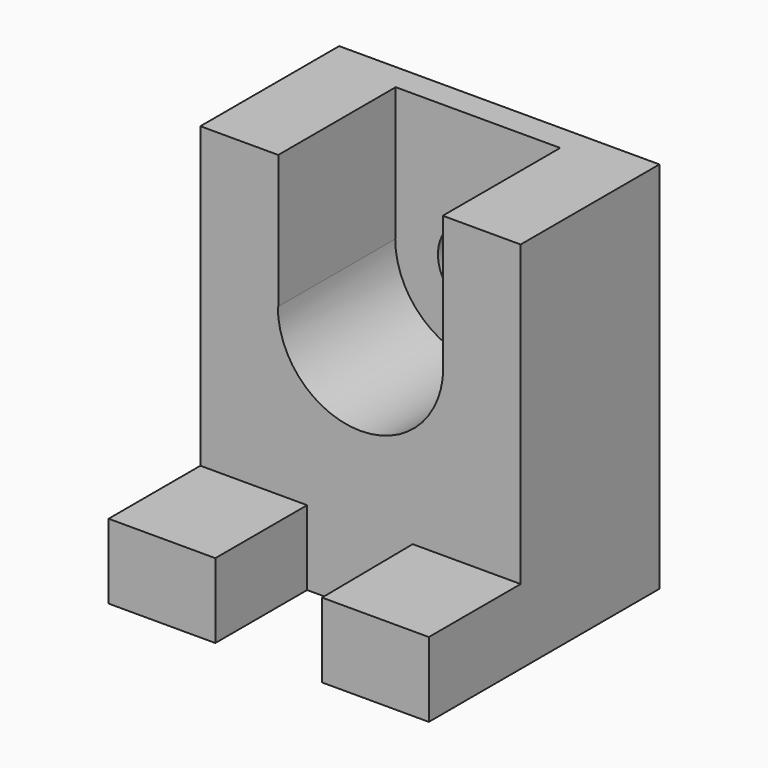
from build123d import *

# Parameters (mm, degrees)
F0_W      = 600
F0_H      = 700
F1_DEPTH  = 540
F2_W      = 600
F2_H      = 560
F3_DEPTH  = 240
F5_DEPTH  = 140.001
F7_DEPTH  = 25
F8_DEPTH  = 250
F9_R      = 75
F10_DEPTH = 50.001


with BuildPart() as f1:
    # F0 (on Front) → F1 (new body)
    with BuildSketch(Plane.XZ):
        Rectangle(F0_W, F0_H)
    extrude(amount=F1_DEPTH)

    # F2 (on face) → F3 (cut)
    with BuildSketch(Plane.XZ.offset(540)):
        with Locations((0, 70)):
            Rectangle(F2_W, F2_H)
    extrude(amount=-F3_DEPTH, mode=Mode.SUBTRACT)

    # F4 (on face) → F5 (cut, through all)
    with BuildSketch(Plane.XY.offset(-210)):
        Polygon((97.4877998233, -300), (-100, -300), (-100, -540), (100, -540), align=None)
    extrude(amount=-F5_DEPTH, mode=Mode.SUBTRACT)

    # F6 (on face) → F7 (join)
    with BuildSketch(Plane.XZ.offset(300)):
        with BuildLine():
            Line((154.0926195456, 100), (155, 100))
            ThreePointArc((155, 100), (0, -55), (-155, 100))
            Line((-155, 100), (-154.0926195456, 100))
            Line((-154.0926195456, 100), (-154.0926195456, 350))
            Line((-154.0926195456, 350), (-300, 350))
            Line((-300, 350), (-300, -210))
            Line((-300, -210), (-100, -210))
            Line((-100, -210), (-100, -350))
            Line((-100, -350), (97.4877998233, -350))
            Line((97.4877998233, -350), (97.4877998233, -210))
            Line((97.4877998233, -210), (300, -210))
            Line((300, -210), (300, 350))
            Line((300, 350), (154.0926195456, 350))
            Line((154.0926195456, 350), (154.0926195456, 100))
        make_face()
    extrude(amount=F7_DEPTH)

    # F8 (cut): faces of the model
    f8_faces = [f1.faces().sort_by_distance(p)[0] for p in [
        (0, -300, 162.2749017605),
        (0, -300, 162.2749017605),
    ]]
    extrude(f8_faces, amount=-F8_DEPTH, mode=Mode.SUBTRACT)

    # F9 (on face) → F10 (cut, through all)
    with BuildSketch(Plane.XZ.offset(50)):
        with Locations((0, 100)):
            Circle(F9_R)
    extrude(amount=-F10_DEPTH, mode=Mode.SUBTRACT)


solid = f1.part
